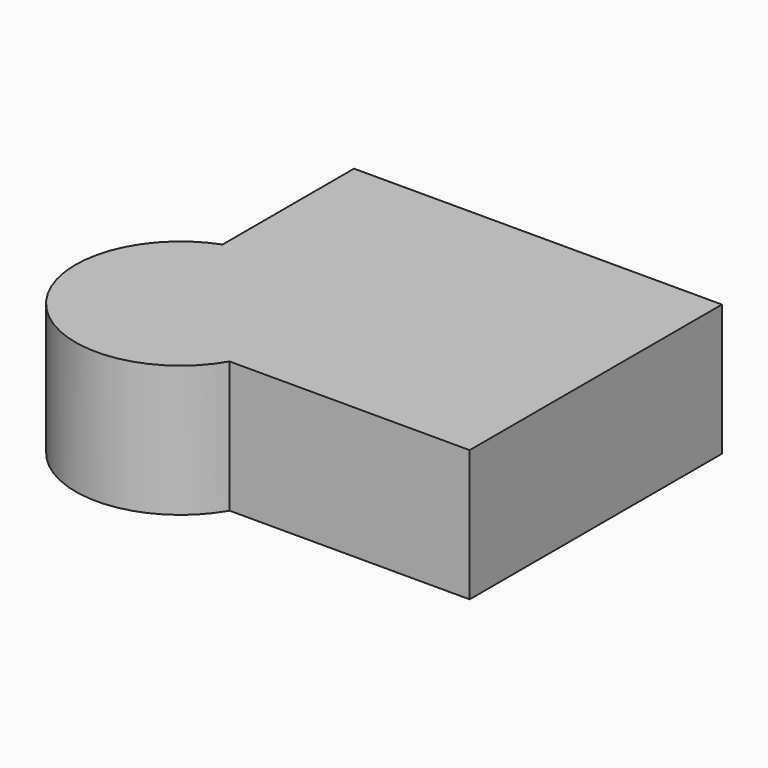
from build123d import *

# Parameters (mm, degrees)
F1_DEPTH = 25


with BuildPart() as f1:
    # F0 (on Top) → F1 (new body)
    with BuildSketch(Plane.XY):
        with BuildLine():
            Line((-50, -11.2650060048), (-50, -40))
            Line((-50, -40), (-25.6794919243, -40))
            ThreePointArc((-25.6794919243, -40), (-23.6814834742, -35.1763809021), (-23, -30))
            ThreePointArc((-23, -30), (-31.598245749, -13.5683232748), (-50, -11.2650060048))
        make_face()
        with BuildLine():
            Line((-25.6794919243, -40), (-50, -40))
            Line((-50, -40), (-50, -11.2650060048))
            ThreePointArc((-50, -11.2650060048), (-58.2660797755, -42.9207897703), (-25.6794919243, -40))
        make_face()
        with BuildLine():
            ThreePointArc((-23, -30), (-23.6814834742, -35.1763809021), (-25.6794919243, -40))
            Line((-25.6794919243, -40), (20, -40))
            Line((20, -40), (20, 20))
            Line((20, 20), (-50, 20))
            Line((-50, 20), (-50, -11.2650060048))
            ThreePointArc((-50, -11.2650060048), (-31.598245749, -13.5683232748), (-23, -30))
        make_face()
    extrude(amount=F1_DEPTH)


solid = f1.part
